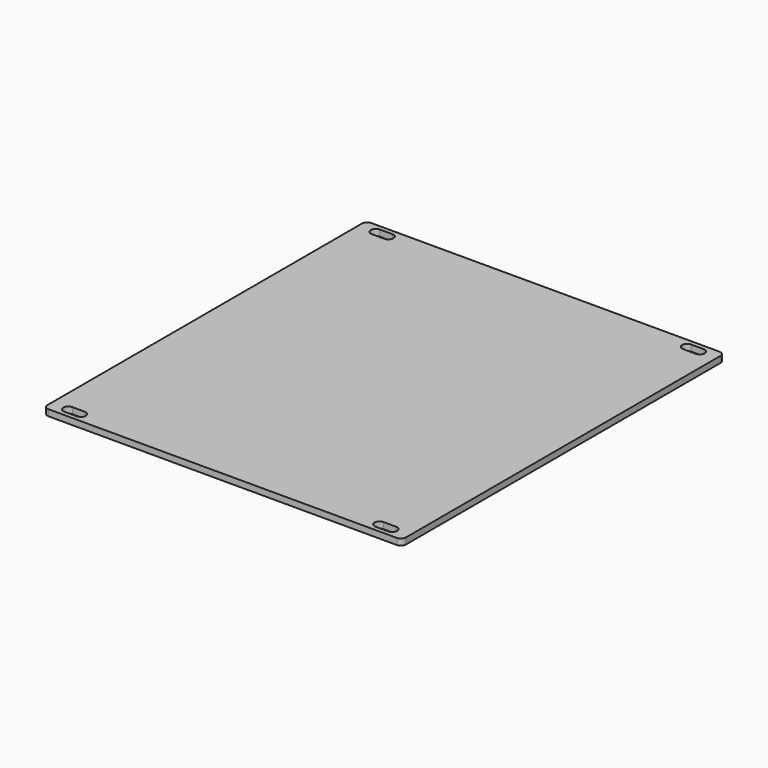
from build123d import *

# Parameters (mm, degrees)
EXTRUDE_DEPTH = 2


with BuildPart() as part:
    # Sketch → Extrude (new body)
    with BuildSketch(Plane.XY):
        with BuildLine():
            Line((-55.49, 64.25), (55.49, 64.25))
            ThreePointArc((57.09, 62.65), (56.621371, 63.781371), (55.49, 64.25))
            Line((57.09, 62.65), (57.09, -62.65))
            ThreePointArc((55.49, -64.25), (56.621371, -63.781371), (57.09, -62.65))
            Line((55.49, -64.25), (-55.49, -64.25))
            ThreePointArc((-57.09, -62.65), (-56.621371, -63.781371), (-55.49, -64.25))
            Line((-57.09, -62.65), (-57.09, 62.65))
            ThreePointArc((-55.49, 64.25), (-56.621371, 63.781371), (-57.09, 62.65))
        make_face()
        with BuildLine():
            ThreePointArc((-51.59, 62.85), (-53.19, 61.25), (-51.59, 59.65))
            Line((-51.59, 59.65), (-47.59, 59.65))
            ThreePointArc((-47.59, 59.65), (-45.99, 61.25), (-47.59, 62.85))
            Line((-51.59, 62.85), (-47.59, 62.85))
        make_face(mode=Mode.SUBTRACT)
        with BuildLine():
            ThreePointArc((47.59, 62.85), (45.99, 61.25), (47.59, 59.65))
            Line((47.59, 59.65), (51.59, 59.65))
            ThreePointArc((51.59, 59.65), (53.19, 61.25), (51.59, 62.85))
            Line((47.59, 62.85), (51.59, 62.85))
        make_face(mode=Mode.SUBTRACT)
        with BuildLine():
            ThreePointArc((-51.59, -59.65), (-53.19, -61.25), (-51.59, -62.85))
            Line((-51.59, -62.85), (-47.59, -62.85))
            ThreePointArc((-47.59, -62.85), (-45.99, -61.25), (-47.59, -59.65))
            Line((-51.59, -59.65), (-47.59, -59.65))
        make_face(mode=Mode.SUBTRACT)
        with BuildLine():
            ThreePointArc((47.59, -59.65), (45.99, -61.25), (47.59, -62.85))
            Line((47.59, -62.85), (51.59, -62.85))
            ThreePointArc((51.59, -62.85), (53.19, -61.25), (51.59, -59.65))
            Line((47.59, -59.65), (51.59, -59.65))
        make_face(mode=Mode.SUBTRACT)
    extrude(amount=-EXTRUDE_DEPTH)


solid = part.part
